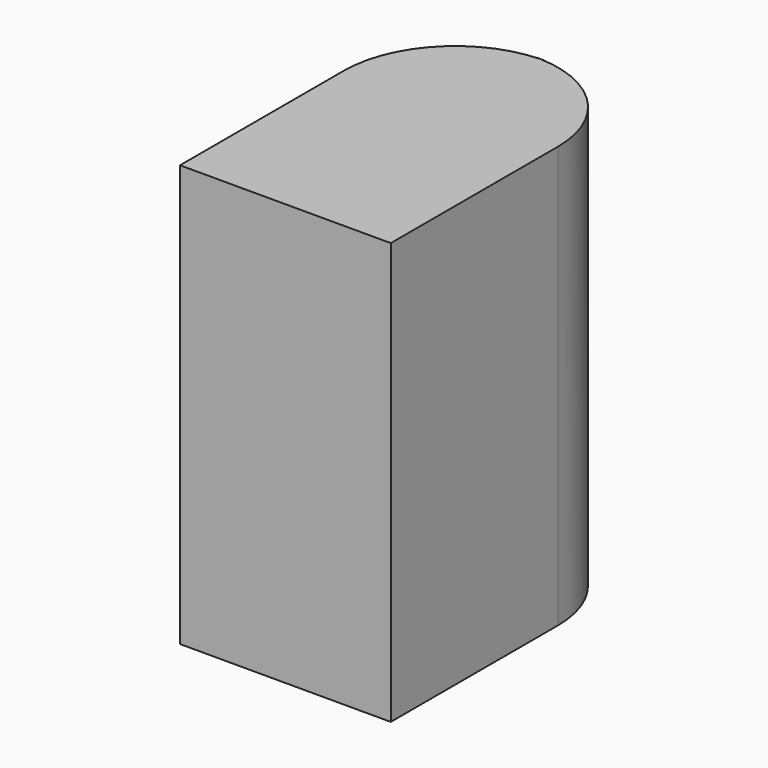
from build123d import *

# Parameters (mm, degrees)
F1_DEPTH = 4


with BuildPart() as f1:
    # F0 (on Top) → F1 (new body)
    with BuildSketch(Plane.XY):
        with BuildLine():
            Line((-4.5825140551, -5.0318525356), (-4.5825140551, -6.9746974812))
            Line((-4.5825140551, -6.9746974812), (-2.5825140551, -6.9746974812))
            Line((-2.5825140551, -6.9746974812), (-2.5825140551, -4.9906974812))
            ThreePointArc((-2.5825140551, -4.9906974812), (-2.8674019742, -4.2851968609), (-3.5622997345, -3.9753430982))
            ThreePointArc((-3.5622997345, -3.9753430982), (-4.2858288859, -4.2975076829), (-4.5825140551, -5.0318525356))
        make_face()
    extrude(amount=F1_DEPTH)


with BuildPart() as f1b:
    # F0 (on Top) → F1, piece 2 (new body)
    with BuildSketch(Plane.XY):
        with BuildLine():
            ThreePointArc((-3.5985140551, -3.9746974812), (-3.5804040176, -3.9748588983), (-3.5622997345, -3.9753430982))
            ThreePointArc((-3.5622997345, -3.9753430982), (-3.5438321882, -3.9748588978), (-3.5253590006, -3.9746974812))
            Line((-3.5253590006, -3.9746974812), (-3.5985140551, -3.9746974812))
        make_face()
    extrude(amount=F1_DEPTH)


solid = Compound([f1.part, f1b.part])
